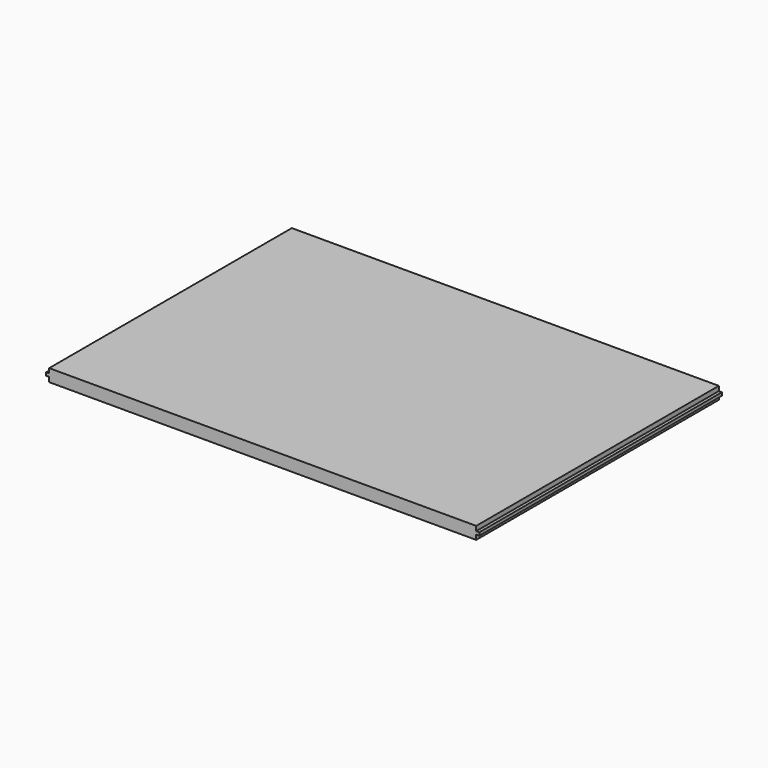
from build123d import *

# Parameters (mm, degrees)
F0_W     = 876.3
F0_H     = 622.3
F1_DEPTH = 25.4
F2_W     = 12.7
F2_H     = 6.35
F3_DEPTH = 622.3


with BuildPart() as f1:
    # F0 (on Top) → F1 (new body)
    with BuildSketch(Plane.XY):
        Rectangle(F0_W, F0_H)
    extrude(amount=F1_DEPTH)

    # F2 (on face) → F3 (join)
    with BuildSketch(Plane.XZ.offset(311.15)):
        with Locations((-438.15, 12.7)):
            Rectangle(F2_W, F2_H)
        with Locations((438.15, 12.7)):
            Rectangle(F2_W, F2_H)
    extrude(amount=-F3_DEPTH)


solid = f1.part
